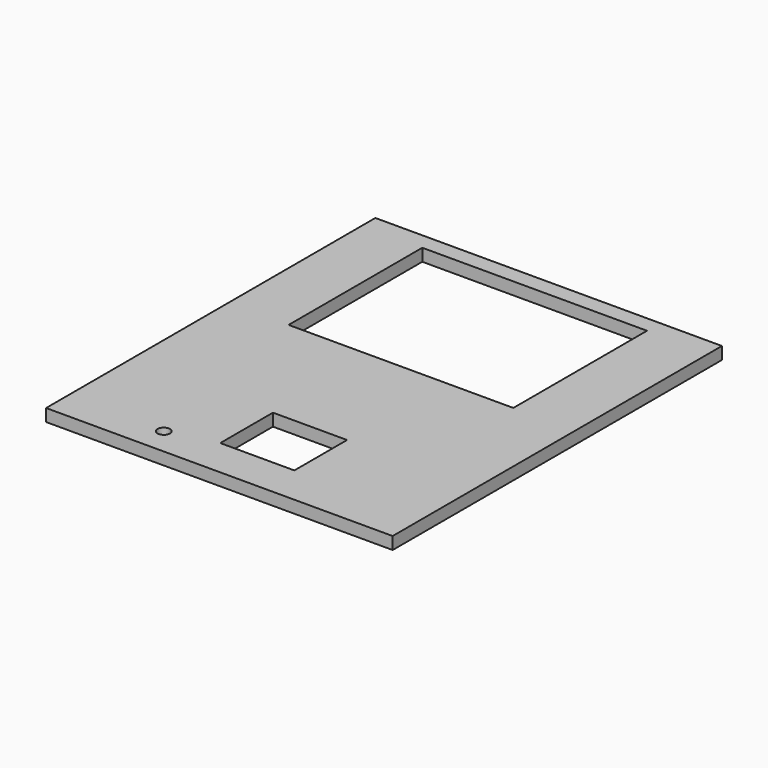
from build123d import *

# Parameters (mm, degrees)
F0_W     = 421
F0_H     = 500
F0_R     = 7.5
F0_W_2   = 90
F0_H_2   = 80
F0_W_3   = 273
F0_H_3   = 203
F1_DEPTH = 15


with BuildPart() as f1:
    # F0 (on Top) → F1 (new body)
    with BuildSketch(Plane.XY):
        with Locations((36.5, -46.220626)):
            Rectangle(F0_W, F0_H)
        with Locations((-57, -263.720626)):
            Circle(F0_R, mode=Mode.SUBTRACT)
        with Locations((45, -209.220626)):
            Rectangle(F0_W_2, F0_H_2, mode=Mode.SUBTRACT)
        with Locations((35.5, 82.279374)):
            Rectangle(F0_W_3, F0_H_3, mode=Mode.SUBTRACT)
    extrude(amount=F1_DEPTH)


solid = f1.part
